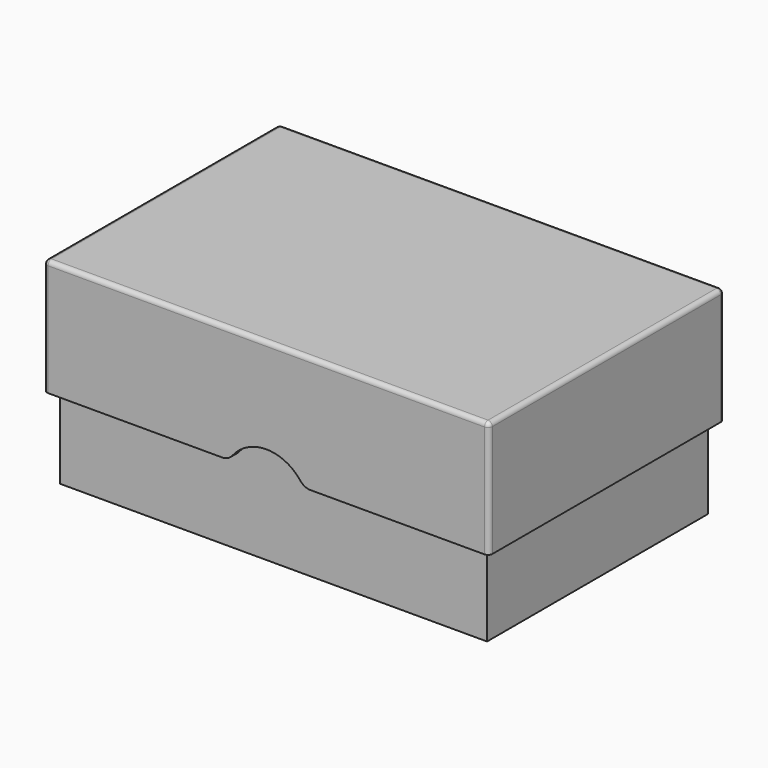
from build123d import *

# Parameters (mm, degrees)
F0_W     = 99
F0_H     = 64
F0_W_2   = 95
F0_H_2   = 60
F1_DEPTH = 2
F2_DEPTH = 42
F3_W     = 103.2
F3_H     = 68.2
F3_W_2   = 99.2
F3_H_2   = 64.2
F3_W_3   = 99
F3_H_3   = 64
F3_W_4   = 95
F3_H_4   = 60
F4_DEPTH = 2
F5_DEPTH = 25
F7_DEPTH = 68.201
F8_R     = 3
F9_R     = 1


with BuildPart() as f1:
    # F0 (on Top) → F1 (new body)
    with BuildSketch(Plane.XY):
        with Locations((47.5, 30)):
            Rectangle(F0_W, F0_H)
        with Locations((47.5, 30)):
            Rectangle(F0_W_2, F0_H_2, mode=Mode.SUBTRACT)
        with Locations((47.5, 30)):
            Rectangle(F0_W_2, F0_H_2)
    extrude(amount=-F1_DEPTH)

    # F0 (on Top) → F2 (join)
    with BuildSketch(Plane.XY):
        with Locations((47.5, 30)):
            Rectangle(F0_W, F0_H)
        with Locations((47.5, 30)):
            Rectangle(F0_W_2, F0_H_2, mode=Mode.SUBTRACT)
    extrude(amount=F2_DEPTH)


with BuildPart() as f4:
    # F3 (on face) → F4 (new body)
    with BuildSketch(Plane.XY.offset(42)):
        with Locations((47.5, 30)):
            Rectangle(F3_W, F3_H)
        with Locations((47.5, 30)):
            Rectangle(F3_W_2, F3_H_2, mode=Mode.SUBTRACT)
        with Locations((47.5, 30)):
            Rectangle(F3_W_2, F3_H_2)
        with Locations((47.5, 30)):
            Rectangle(F3_W_3, F3_H_3, mode=Mode.SUBTRACT)
        with Locations((47.5, 30)):
            Rectangle(F3_W_3, F3_H_3)
        with Locations((47.5, 30)):
            Rectangle(F3_W_4, F3_H_4, mode=Mode.SUBTRACT)
        with Locations((47.5, 30)):
            Rectangle(F3_W_4, F3_H_4)
    extrude(amount=F4_DEPTH)

    # F3 (on face) → F5 (join)
    with BuildSketch(Plane.XY.offset(42)):
        with Locations((47.5, 30)):
            Rectangle(F3_W, F3_H)
        with Locations((47.5, 30)):
            Rectangle(F3_W_2, F3_H_2, mode=Mode.SUBTRACT)
    extrude(amount=-F5_DEPTH)

    # F6 (on face) → F7 (cut, through all)
    with BuildSketch(Plane.XZ.offset(4.1)):
        with BuildLine():
            Line((38.8397459622, 17), (56.1602540378, 17))
            ThreePointArc((56.1602540378, 17), (47.5, 22), (38.8397459622, 17))
        make_face()
    extrude(amount=-F7_DEPTH, mode=Mode.SUBTRACT)

    # F8
    f8_edges = [f4.edges().sort_by_distance(p)[0] for p in [
        (38.839746, -3.1, 17),
        (56.160254, -3.1, 17),
        (38.839746, 63.1, 17),
        (56.160254, 63.1, 17),
    ]]
    fillet(f8_edges, radius=F8_R)

    # F9
    f9_edges = [f4.edges().sort_by_distance(p)[0] for p in [
        (-4.1, 30, 44),
        (47.5, -4.1, 44),
        (99.1, 30, 44),
        (47.5, 64.1, 44),
        (99.1, -4.1, 30.5),
        (99.1, 64.1, 30.5),
        (-4.1, 64.1, 30.5),
        (-4.1, -4.1, 30.5),
    ]]
    fillet(f9_edges, radius=F9_R)


solid = Compound([f1.part, f4.part])
